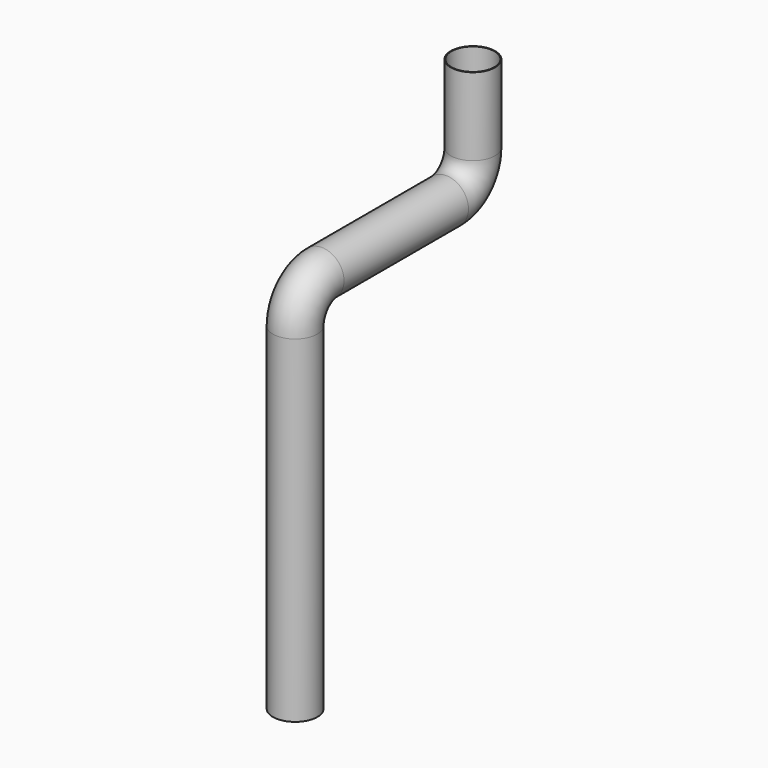
from build123d import *

# Parameters (mm, degrees)
F1_R   = 30
F1_R_2 = 29


with BuildPart() as f2:
    # F2: sweep along a path in F0
    with BuildLine(Plane.YZ) as f2_path:
        Line((0, 0), (0, 455))
        ThreePointArc((0, 455), (13.180195, 486.819805), (45, 500))
        Line((45, 500), (255, 500))
        ThreePointArc((255, 500), (286.819805, 513.180195), (300, 545))
        Line((300, 545), (300, 650))
    # F1 (on Top) → F2 (sweep)
    with BuildSketch(Plane.XY):
        Circle(F1_R)
        Circle(F1_R_2, mode=Mode.SUBTRACT)
    sweep(path=f2_path.line)


solid = f2.part
